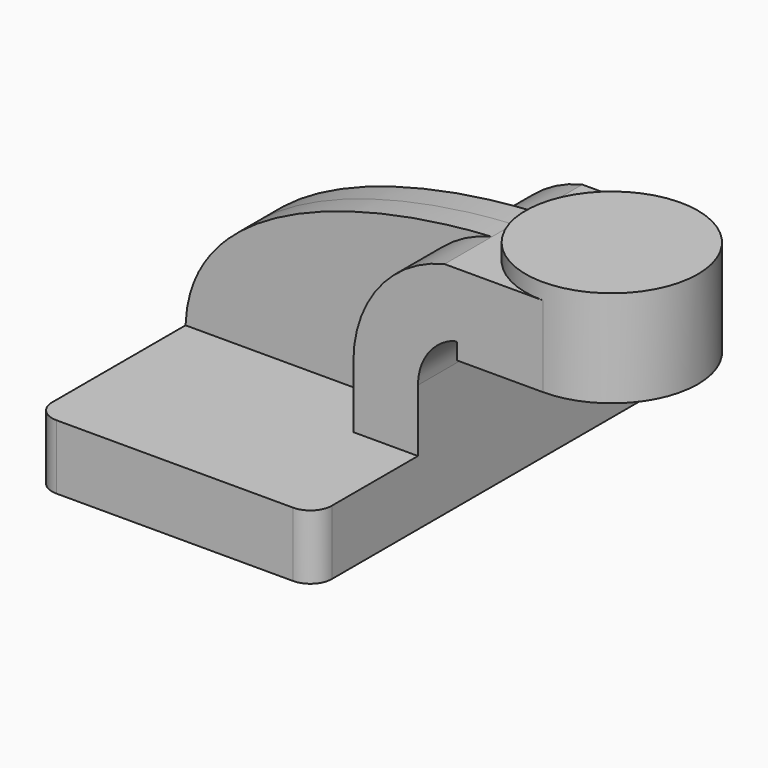
from build123d import *

# Parameters (mm, degrees)
F1_DEPTH = 63.5
F2_DEPTH = 25.4
F3_DEPTH = 7.9375
F4_DEPTH = 25.4
F6_R     = 6.35


with BuildPart() as f1:
    # F0 (on Front) → F1 (new body, symmetric)
    with BuildSketch(Plane.XZ):
        Polygon((41.275, -9.525), (41.275, 9.525), (22.225, 9.525), (-41.275, 9.525), (-41.275, -9.525), align=None)
    extrude(amount=F1_DEPTH, both=True)

    # F0 (on Front) → F2 (join, symmetric)
    with BuildSketch(Plane.XZ):
        with BuildLine():
            Line((22.225, 9.525), (41.275, 9.525))
            Line((41.275, 9.525), (41.275, 27.934134))
            ThreePointArc((41.275, 27.934134), (44.165769, 37.067884), (51.785284, 42.8752))
            Line((51.785284, 42.8752), (52.741684, 42.8752))
            Line((52.741684, 42.8752), (52.741684, 61.9252))
            Line((52.741684, 61.9252), (49.12734, 61.9252))
            ThreePointArc((49.12734, 61.9252), (29.764356, 49.608592), (22.225, 27.934134))
            Line((22.225, 27.934134), (22.225, 9.525))
        make_face()
    extrude(amount=F2_DEPTH, both=True)

    # F0 (on Front) → F3 (join, symmetric)
    with BuildSketch(Plane.XZ):
        with BuildLine():
            Line((-41.275, 9.525), (22.225, 9.525))
            Line((22.225, 9.525), (22.225, 27.934134))
            ThreePointArc((22.225, 27.934134), (29.764356, 49.608592), (49.12734, 61.9252))
            add(Edge.make_bspline(
                [(-41.275, 9.525), (-40.009573, 46.556816), (13.483403, 60.000081), (49.12734, 61.9252)],
                knots=[0, 0, 0, 0, 104.490976, 104.490976, 104.490976, 104.490976], degree=3))
        make_face()
    extrude(amount=F3_DEPTH, both=True)

    # F0 (on Front) → F4 (join, symmetric)
    with BuildSketch(Plane.XZ):
        Polygon((52.741684, 61.9252), (52.741684, 42.8752), (52.741684, 38.1), (78.141684, 38.1), (78.141684, 61.9252), align=None)
    extrude(amount=F4_DEPTH, both=True)

    # F0 (on Front) → F5 (revolve)
    with BuildSketch(Plane.XZ):
        Polygon((78.141684, 66.675), (78.141684, 61.9252), (78.141684, 38.1), (103.541684, 38.1), (103.541684, 66.675), align=None)
    revolve(axis=Axis((78.141684, 0, 52.3875), (0, 0, 1)))

    # F6
    f6_edges = [f1.edges().sort_by_distance(p)[0] for p in [
        (41.275, -63.5, 0),
        (-41.275, -63.5, 0),
        (-41.275, 63.5, 0),
        (41.275, 63.5, 0),
    ]]
    fillet(f6_edges, radius=F6_R)


solid = f1.part
